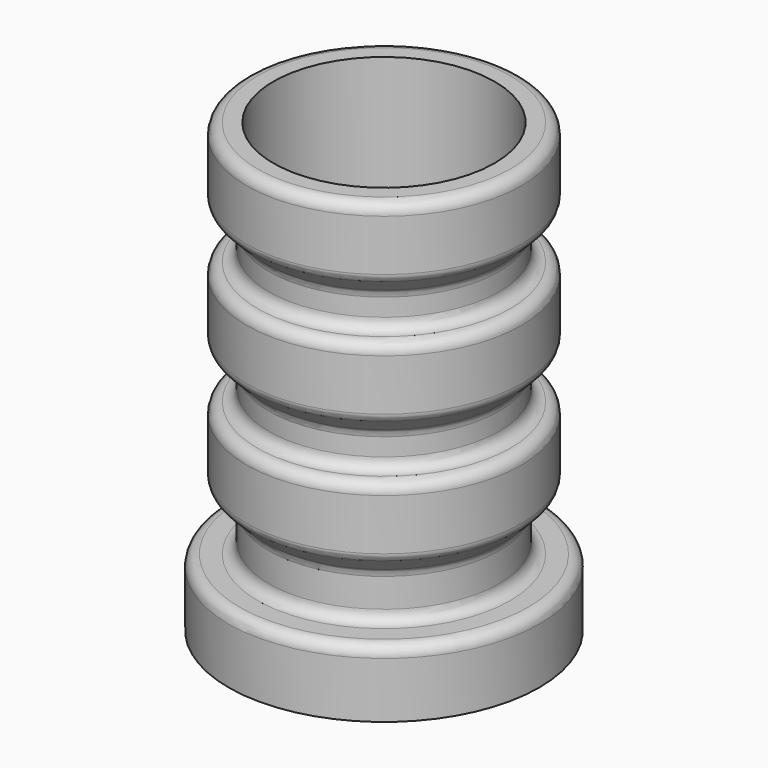
from build123d import *


with BuildPart() as f1:
    # F0 (on Front) → F1 (revolve)
    with BuildSketch(Plane.XZ):
        with BuildLine():
            Line((0, 10.71063), (0, -9.28937))
            Line((0, -9.28937), (2, -9.28937))
            Line((2, -9.28937), (2, -6.78937))
            ThreePointArc((2, -6.78937), (1.853553, -6.435817), (1.5, -6.28937))
            Line((1.5, -6.28937), (0.7, -6.28937))
            ThreePointArc((0.7, -6.28937), (0.346447, -6.142924), (0.2, -5.78937))
            Line((0.2, -5.78937), (0.2, -4.496477))
            ThreePointArc((0.2, -4.496477), (0.23806, -4.305135), (0.346447, -4.142924))
            Line((0.346447, -4.142924), (1.053553, -3.435817))
            ThreePointArc((1.053553, -3.435817), (1.16194, -3.273605), (1.2, -3.082264))
            Line((1.2, -3.082264), (1.2, -0.78937))
            ThreePointArc((1.2, -0.78937), (1.053553, -0.435817), (0.7, -0.28937))
            ThreePointArc((0.7, -0.28937), (0.346447, -0.142924), (0.2, 0.21063))
            Line((0.2, 0.21063), (0.2, 1.003523))
            ThreePointArc((0.2, 1.003523), (0.23806, 1.194865), (0.346447, 1.357076))
            Line((0.346447, 1.357076), (1.053553, 2.064183))
            ThreePointArc((1.053553, 2.064183), (1.16194, 2.226395), (1.2, 2.417736))
            Line((1.2, 2.417736), (1.2, 4.71063))
            ThreePointArc((1.2, 4.71063), (1.053553, 5.064183), (0.7, 5.21063))
            ThreePointArc((0.7, 5.21063), (0.346447, 5.357076), (0.2, 5.71063))
            Line((0.2, 5.71063), (0.2, 6.503523))
            ThreePointArc((0.2, 6.503523), (0.23806, 6.694865), (0.346447, 6.857076))
            Line((0.346447, 6.857076), (1.053553, 7.564183))
            ThreePointArc((1.053553, 7.564183), (1.16194, 7.726395), (1.2, 7.917736))
            Line((1.2, 7.917736), (1.2, 10.21063))
            ThreePointArc((1.2, 10.21063), (1.053553, 10.564183), (0.7, 10.71063))
            Line((0.7, 10.71063), (0, 10.71063))
        make_face()
    revolve(axis=Axis((-4.95, 0, -7.763862), (0, 0, -1)))


solid = f1.part
